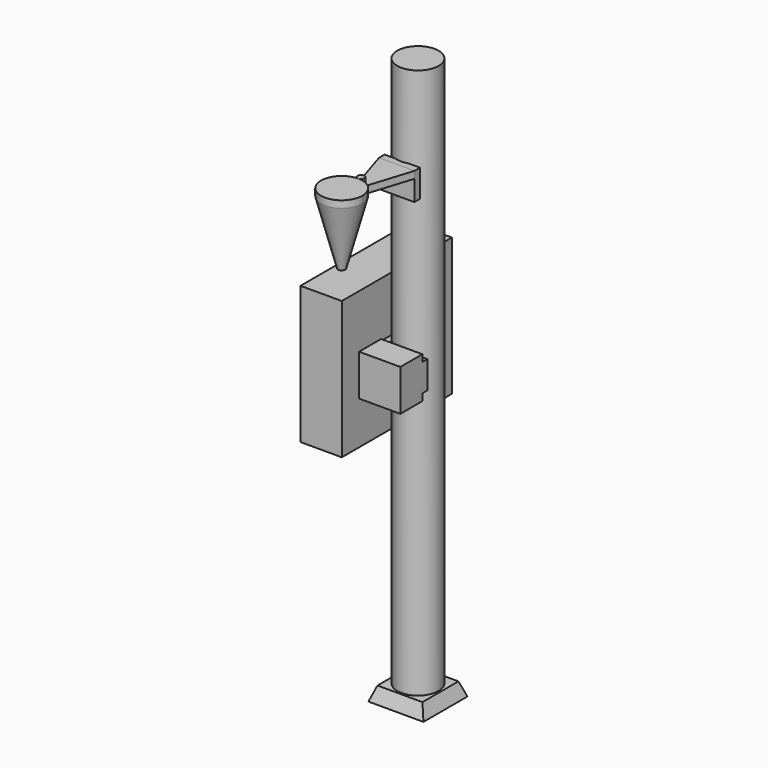
from build123d import *

# Parameters (mm, degrees)
F0_W           = 200
F0_H           = 200
F1_DEPTH       = 50
F1_TAPER       = 20
F2_R           = 75
F3_DEPTH       = 2000
F5_W           = 200
F5_H           = 100
F6_DEPTH       = 25.4
F7_W           = 500
F7_H           = 500
F8_DEPTH       = 150
F9_W           = 22.6481758561
F9_H           = 100
F10_DEPTH      = 147.32
F11_W          = 150
F11_H          = 150
F12_DEPTH      = 100
F14_W          = 128.6195661301
F14_H          = 100
F15_DEPTH      = 25.4
F16_R          = 75
F17_DEPTH      = 25.4
F17_DEPTH_BACK = 231.14
F17_TAPER_BACK = 15
F18_R          = 12.5
F19_DEPTH      = 25.4
F21_DEPTH      = 25.4


with BuildPart() as f1:
    # F0 (on Top) → F1 (new body)
    with BuildSketch(Plane.XY):
        Rectangle(F0_W, F0_H)
    extrude(amount=F1_DEPTH, taper=F1_TAPER)

    # F2 (on face) → F3 (join)
    with BuildSketch(Plane.XY.offset(50)):
        Circle(F2_R)
    extrude(amount=F3_DEPTH)

    # F5 (on offset) → F6 (join)
    with BuildSketch(Plane.YZ.offset(-76.708)):
        with Locations((0, 1100)):
            Rectangle(F5_W, F5_H)
    extrude(amount=F6_DEPTH)

    # F7 (on face) → F8 (join)
    with BuildSketch(Plane(origin=(-76.708, 0, 0), x_dir=(0, -1, 0), z_dir=(-1, 0, 0))):
        with Locations((0, 1100)):
            Rectangle(F7_W, F7_H)
    extrude(amount=F8_DEPTH)

    # F9 (on face) → F10 (join)
    with BuildSketch(Plane.YZ.offset(-51.308)):
        with Locations((-88.675912072, 1100)):
            Rectangle(F9_W, F9_H)
    extrude(amount=F10_DEPTH)

    # F11 (on face) → F12 (join)
    with BuildSketch(Plane.XZ.offset(100)):
        with Locations((21.012, 1100)):
            Rectangle(F11_W, F11_H)
    extrude(amount=F12_DEPTH)

    # F14 (on offset) → F15 (join)
    with BuildSketch(Plane.XZ.offset(71.12)):
        with Locations((0, 1700)):
            Rectangle(F14_W, F14_H)
    extrude(amount=F15_DEPTH)


with BuildPart() as f17:
    # F16 (on face) → F17 (new body, two sides)
    with BuildSketch(Plane.XY.offset(1750)) as f17_sk:
        with Locations((0, -346.52)):
            Circle(F16_R)
    extrude(amount=F17_DEPTH)
    extrude(f17_sk.sketch, amount=-F17_DEPTH_BACK, taper=F17_TAPER_BACK)

    # F18 (on face) → F19 (join)
    with BuildSketch(Plane.XY.offset(1750)):
        with Locations((0, -259.02)):
            Circle(F18_R)
    extrude(amount=F19_DEPTH)


with BuildPart() as f21:
    # F20 (on face) → F21 (new body)
    with BuildSketch(Plane.XY.offset(1750)):
        with BuildLine():
            Line((64.3097830651, -96.52), (-64.3097830651, -96.52))
            Line((-64.3097830651, -96.52), (-11.9221379623, -262.7766775756))
            ThreePointArc((-11.9221379623, -262.7766775756), (0, -271.52), (11.9221379623, -262.7766775756))
            Line((11.9221379623, -262.7766775756), (64.3097830651, -96.52))
        make_face()
    extrude(amount=-F21_DEPTH)


solid = Compound([f1.part, f17.part, f21.part])
